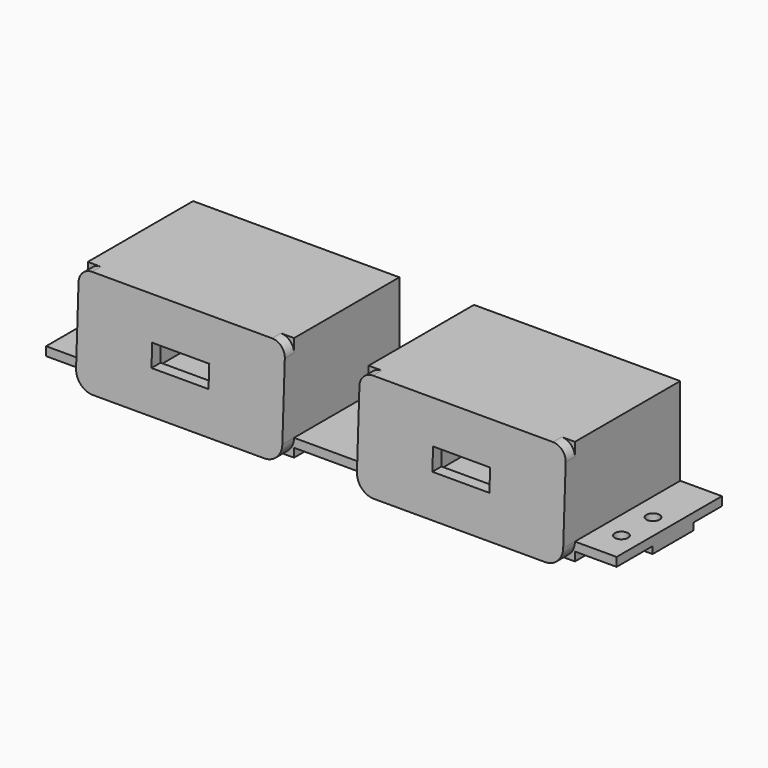
from build123d import *

# Parameters (mm, degrees)
PAD_DEPTH            = 30
PAD001_DEPTH         = 3.5
SKETCH002_W          = 13
SKETCH002_H          = 5
POCKET_DEPTH         = 33.501
SKETCH003_W          = 17.5
SKETCH003_H          = 9.5
POCKET001_DEPTH      = 30.5
POCKET002_DEPTH      = 120.501
POCKET002_DEPTH_BACK = -9.501
SKETCH008_W          = 9.5
SKETCH008_H          = 18
SKETCH008_H_2        = 11.637311
PAD002_DEPTH         = 1.6
SKETCH009_R          = 1.75
SKETCH009_R_2        = 1.5
POCKET003_DEPTH      = 22.001
POCKET003_DEPTH_BACK = -2.001


with BuildPart() as part:
    # Sketch → Pad (new body)
    with BuildSketch(Plane.XZ):
        Polygon((-55.5, 22), (-8.5, 22), (-8.5, 2), (8.5, 2), (8.5, 22), (55.5, 22), (55.5, 2), (65, 2), (65, 0), (55.5, 0), (55.5, -2), (8.5, -2), (8.5, 0), (-8.5, 0), (-8.5, -2), (-55.5, -2), (-55.5, 0), (-65, 0), (-65, 2), (-55.5, 2), align=None)
    extrude(amount=PAD_DEPTH)

    # Sketch001 → Pad001 (new body)
    with BuildSketch(Plane.XZ.offset(30)):
        with BuildLine():
            ThreePointArc((-52.5, 22), (-54.62132, 21.12132), (-55.5, 19))
            Line((-55.5, 19), (-55.5, 2))
            ThreePointArc((-55.5, 2), (-54.328434, -0.828421), (-51.500018, -2))
            Line((-51.500018, -2), (-12.499975, -2))
            ThreePointArc((-12.499975, -2), (-9.671566, -0.82842), (-8.5, 1.999996))
            Line((-8.5, 19.000001), (-8.5, 1.999996))
            ThreePointArc((-8.5, 19.000001), (-9.37868, 21.121321), (-11.5, 22))
            Line((-52.5, 22), (-11.5, 22))
        make_face()
        with BuildLine():
            ThreePointArc((11.5, 22), (9.37868, 21.12132), (8.5, 19))
            Line((8.5, 2), (8.5, 19))
            ThreePointArc((8.5, 2), (9.671573, -0.828427), (12.5, -2))
            Line((51.5, -2), (12.5, -2))
            ThreePointArc((51.5, -2), (54.328427, -0.828427), (55.5, 2))
            Line((55.5, 18.999976), (55.5, 2))
            ThreePointArc((55.5, 18.999976), (54.621329, 21.121312), (52.5, 22))
            Line((11.5, 22), (52.5, 22))
        make_face()
    extrude(amount=PAD001_DEPTH)

    # Sketch002 → Pocket (cut, through all)
    with BuildSketch(Plane(origin=(0, 0, 0), x_dir=(1, 0, 0), z_dir=(0, 1, 0))):
        with Locations((-32, -10)):
            Rectangle(SKETCH002_W, SKETCH002_H)
        with Locations((32, -10)):
            Rectangle(SKETCH002_W, SKETCH002_H)
    extrude(amount=-POCKET_DEPTH, mode=Mode.SUBTRACT)

    # Sketch003 → Pocket001 (cut)
    with BuildSketch(Plane(origin=(0, 0, 0), x_dir=(1, 0, 0), z_dir=(0, 1, 0))):
        with Locations((-32, -10)):
            Rectangle(SKETCH003_W, SKETCH003_H)
        with Locations((32, -10)):
            Rectangle(SKETCH003_W, SKETCH003_H)
    extrude(amount=-POCKET001_DEPTH, mode=Mode.SUBTRACT)

    # Sketch007 → Pocket002 (cut, two sides)
    with BuildSketch(Plane(origin=(55.5, 0, 0), x_dir=(0, 0, 1), z_dir=(1, 0, 0))) as pocket002_sk:
        Polygon((-2, 33.5), (22.001, 33.5), (22.001, 32.5), align=None)
    extrude(amount=-POCKET002_DEPTH, mode=Mode.SUBTRACT)
    extrude(pocket002_sk.sketch, amount=-POCKET002_DEPTH_BACK, mode=Mode.SUBTRACT)

    # Sketch008 → Pad002 (new body)
    with BuildSketch(Plane(origin=(0, 0, 0), x_dir=(1, 0, 0), z_dir=(0, 0, -1))):
        with Locations((-60.25, 9.50335)):
            Rectangle(SKETCH008_W, SKETCH008_H)
        with Locations((60.25, 13.927338)):
            Rectangle(SKETCH008_W, SKETCH008_H_2)
    extrude(amount=PAD002_DEPTH)

    # Sketch009 → Pocket003 (cut, two sides)
    with BuildSketch(Plane(origin=(0, 0, 0), x_dir=(1, 0, 0), z_dir=(0, 0, -1))) as pocket003_sk:
        with Locations((0, 19)):
            Circle(SKETCH009_R)
        with Locations((-60.5, 23)):
            Circle(SKETCH009_R_2)
        with Locations((-60.5, 14)):
            Circle(SKETCH009_R_2)
        with Locations((60.5, 23)):
            Circle(SKETCH009_R_2)
        with Locations((60.5, 14)):
            Circle(SKETCH009_R_2)
        with Locations((-60.5, 5)):
            Circle(SKETCH009_R_2)
    extrude(amount=-POCKET003_DEPTH, mode=Mode.SUBTRACT)
    extrude(pocket003_sk.sketch, amount=-POCKET003_DEPTH_BACK, mode=Mode.SUBTRACT)


solid = part.part
